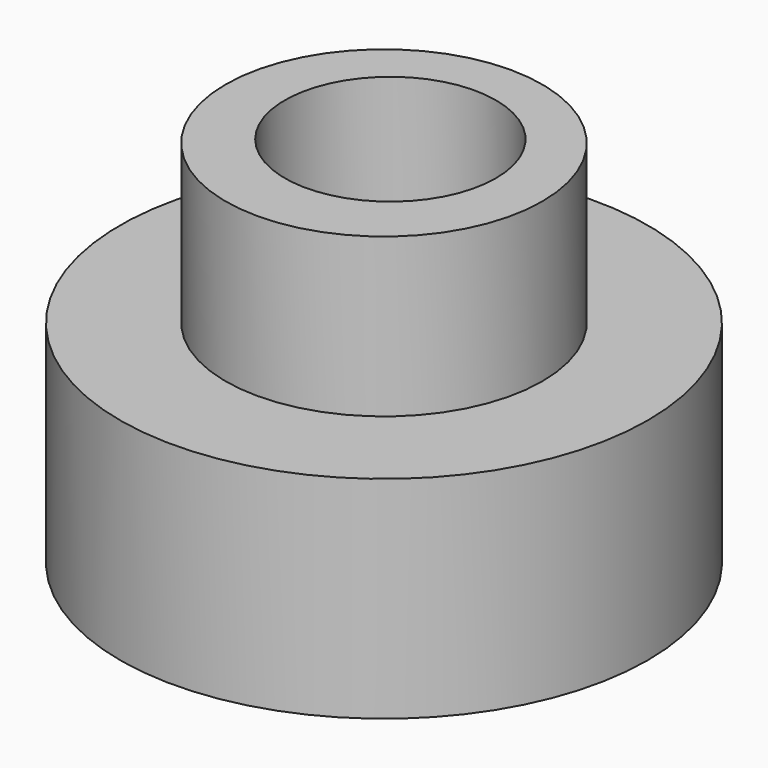
from build123d import *

# Parameters (mm, degrees)
F0_R     = 31.75
F1_DEPTH = 25.4
F2_R     = 19.05
F3_DEPTH = 19.05
F4_R     = 12.7
F5_DEPTH = 25.4
F6_DEPTH = 25.4


with BuildPart() as f1:
    # F0 (on Top) → F1 (new body)
    with BuildSketch(Plane.XY):
        with Locations((0.361489, -0.120497)):
            Circle(F0_R)
    extrude(amount=F1_DEPTH)

    # F4 (on face) → F5 (cut)
    with BuildSketch(Plane.XY.offset(25.4)):
        with Locations((0.361492, 0.843479)):
            Circle(F4_R)
    extrude(amount=-F5_DEPTH, mode=Mode.SUBTRACT)


with BuildPart() as f3:
    # F2 (on face) → F3 (new body)
    with BuildSketch(Plane.XY.offset(25.4)):
        with Locations((0.361489, -0.120497)):
            Circle(F2_R)
    extrude(amount=F3_DEPTH)

    # F4 (on face) → F6 (cut)
    with BuildSketch(Plane.XY.offset(25.4)):
        with Locations((0.361492, 0.843479)):
            Circle(F4_R)
    extrude(amount=F6_DEPTH, mode=Mode.SUBTRACT)


solid = Compound([f1.part, f3.part])
